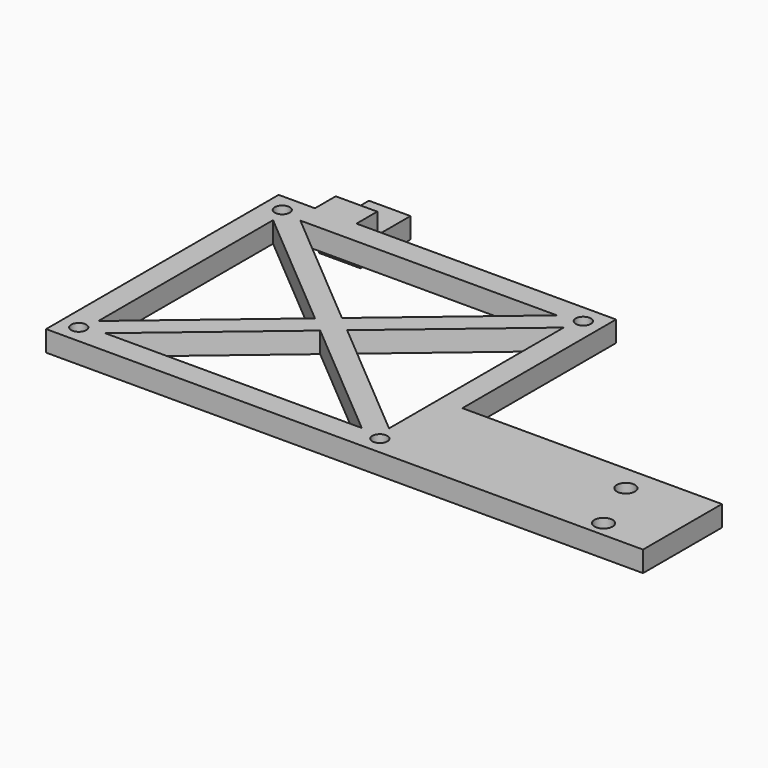
from build123d import *

# Parameters (mm, degrees)
SKETCH_W        = 65
SKETCH_H        = 56
SKETCH_R        = 1.45
PAD_DEPTH       = 4
SKETCH002_R     = 1.25
POCKET_DEPTH    = 5
SKETCH005_W     = 19
SKETCH005_H     = 4
PAD002_DEPTH    = 50
SKETCH006_W     = 8
SKETCH006_H     = 4
PAD003_DEPTH    = 5
SKETCH007_W     = 8
SKETCH007_H     = 4
PAD004_DEPTH    = 4
PAD004_FACE36_W = 8
PAD004_FACE36_H = 4
PAD005_DEPTH    = 8
SKETCH008_R     = 1.75
POCKET001_DEPTH = 4.001
CHAMFER_SIZE    = 1


with BuildPart() as part:
    # Sketch → Pad (new body)
    with BuildSketch(Plane.XY):
        with Locations((32.5, 28)):
            Rectangle(SKETCH_W, SKETCH_H)
        with Locations((3.5, 52.5)):
            Circle(SKETCH_R, mode=Mode.SUBTRACT)
        with Locations((61.5, 52.5)):
            Circle(SKETCH_R, mode=Mode.SUBTRACT)
        with Locations((3.5, 3.5)):
            Circle(SKETCH_R, mode=Mode.SUBTRACT)
        with Locations((61.5, 3.5)):
            Circle(SKETCH_R, mode=Mode.SUBTRACT)
        Polygon((7.782759, 51.5), (57.217241, 51.5), (32.5, 30.618193), align=None, mode=Mode.SUBTRACT)
        Polygon((60.5, 49.036979), (60.5, 6.963021), (35.599086, 28), align=None, mode=Mode.SUBTRACT)
        Polygon((57.217241, 4.5), (7.782759, 4.5), (32.5, 25.381807), align=None, mode=Mode.SUBTRACT)
        Polygon((4.5, 6.963021), (4.5, 49.036979), (29.400914, 28), align=None, mode=Mode.SUBTRACT)
    extrude(amount=PAD_DEPTH)

    # Sketch002 → Pocket (cut)
    with BuildSketch(Plane(origin=(-1.55844, 1.844684, 0), x_dir=(-0.763886, -0.645352, 0), z_dir=(-0.645352, 0.763886, 0))):
        with Locations((-21.5, 5.25)):
            Circle(SKETCH002_R)
        with Locations((-4.5, 5.25)):
            Circle(SKETCH002_R)
    extrude(amount=-POCKET_DEPTH, mode=Mode.SUBTRACT)

    # Sketch005 → Pad002 (join)
    with BuildSketch(Plane.YZ.offset(65)):
        with Locations((9.5, 2)):
            Rectangle(SKETCH005_W, SKETCH005_H)
    extrude(amount=PAD002_DEPTH)

    # Sketch006 (on Face1 of Pad002) → Pad003 (join)
    with BuildSketch(Plane(origin=(0, 56, 0), x_dir=(-1, 0, 0), z_dir=(0, 1, 0))):
        with Locations((-11, 2)):
            Rectangle(SKETCH006_W, SKETCH006_H)
    extrude(amount=PAD003_DEPTH)

    # Sketch007 (on Face6 of Pad003) → Pad004 (join)
    with BuildSketch(Plane(origin=(0, 0, 0), x_dir=(1, 0, 0), z_dir=(0, 0, -1))):
        with Locations((11, -59)):
            Rectangle(SKETCH007_W, SKETCH007_H)
    extrude(amount=PAD004_DEPTH)

    # Pad004 Face36 → Pad005 (add)
    with BuildSketch(Plane(origin=(11, 61, -2), x_dir=(1, 0, 0), z_dir=(0, 1, 0))):
        Rectangle(PAD004_FACE36_W, PAD004_FACE36_H)
    extrude(amount=PAD005_DEPTH)

    # Sketch008 (on Face9 of Pad005) → Pocket001 (cut, through all)
    with BuildSketch(Plane(origin=(0, 0, 0), x_dir=(1, 0, 0), z_dir=(0, 0, -1))):
        with Locations((105, -3)):
            Circle(SKETCH008_R)
        with Locations((100.5, -14)):
            Circle(SKETCH008_R)
    extrude(amount=-POCKET001_DEPTH, mode=Mode.SUBTRACT)

    # Chamfer
    chamfer_edges = [part.edges().sort_by_distance(p)[0] for p in [
        (98.75, 14, 0),
        (103.25, 3, 0),
    ]]
    chamfer(chamfer_edges, length=CHAMFER_SIZE)


solid = part.part
